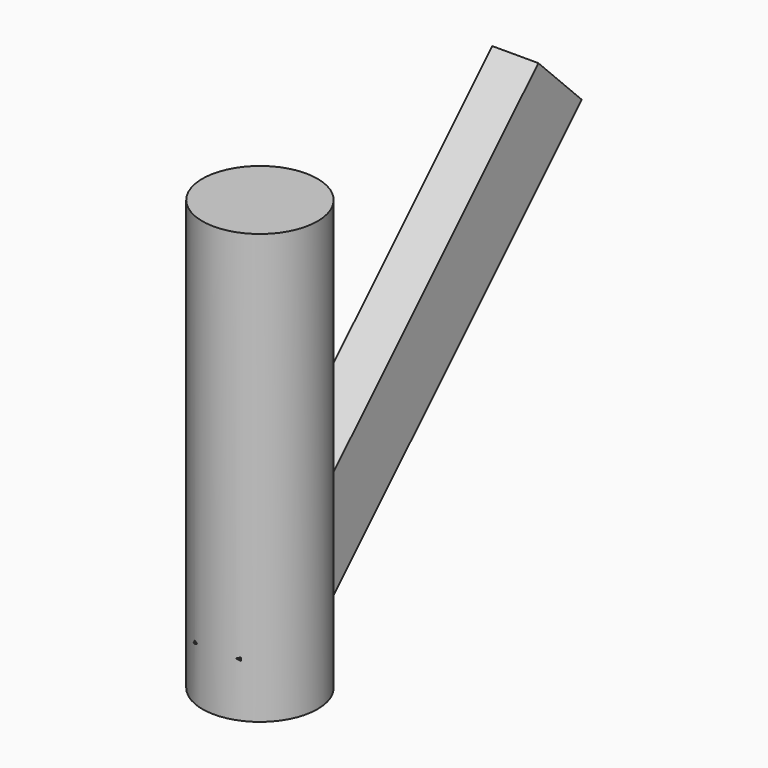
from build123d import *

# Parameters (mm, degrees)
F0_R     = 15
F1_DEPTH = 111.9
F3_W     = 12
F3_H     = 20
F4_DEPTH = 137.6


with BuildPart() as f1:
    # F0 (on Top) → F1 (new body)
    with BuildSketch(Plane.XY):
        Circle(F0_R)
    extrude(amount=F1_DEPTH)

    # F3 (on face) → F4 (join)
    with BuildSketch(Plane(origin=(0, 0, 0), x_dir=(1, 0, 0), z_dir=(0, -0.7071067812, -0.7071067812))):
        with Locations((0, 10)):
            Rectangle(F3_W, F3_H)
    extrude(amount=-F4_DEPTH)


solid = f1.part
